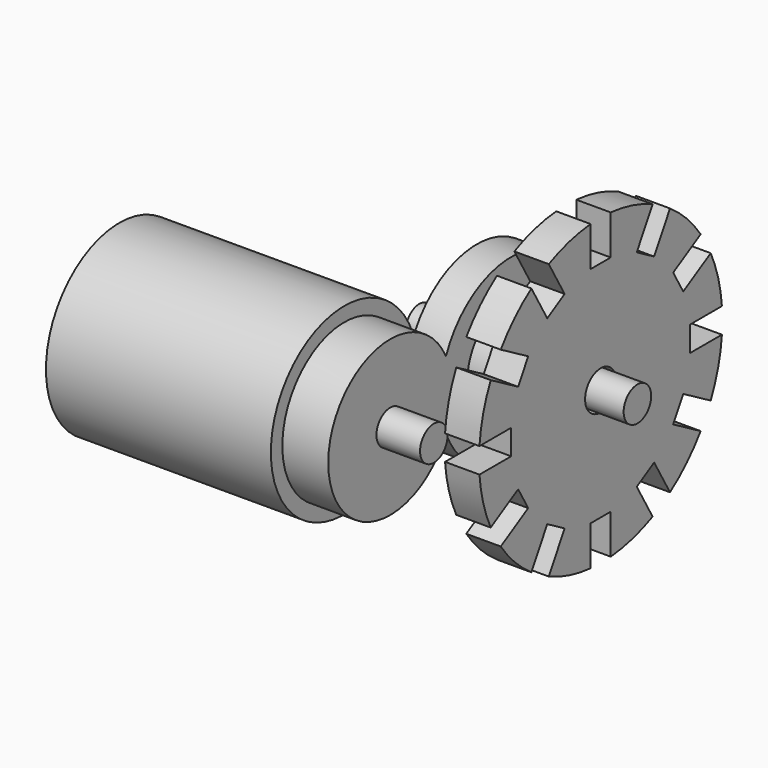
from build123d import *

# Parameters (mm, degrees)
CYLINDER005_R               = 1.5
CYLINDER005_DEPTH           = 30.9
CYLINDER006_R               = 8
CYLINDER006_DEPTH           = 19.6
CUBE008_W                   = 1.7
CUBE008_H                   = 6
CUBE008_DEPTH               = 8
CYLINDER016_R               = 1.25
CYLINDER016_DEPTH           = 1
CYLINDER017_R               = 1.25
CYLINDER017_DEPTH           = 1
CYLINDER017_PLACEMENT_ANGLE = 120
CYLINDER018_R               = 1.25
CYLINDER018_DEPTH           = 1
CYLINDER018_PLACEMENT_ANGLE = 240
CUBE010_W                   = 7
CUBE010_H                   = 2.1875
CUBE010_DEPTH               = 3
CUBE010_PLACEMENT_ANGLE     = 30
CUBE011_W                   = 7
CUBE011_H                   = 2.1875
CUBE011_DEPTH               = 3
CUBE011_PLACEMENT_ANGLE     = 60
CUBE012_W                   = 7
CUBE012_H                   = 2.1875
CUBE012_DEPTH               = 3
CUBE013_W                   = 7
CUBE013_H                   = 2.1875
CUBE013_DEPTH               = 3
CUBE013_PLACEMENT_ANGLE     = 120
CUBE014_W                   = 7
CUBE014_H                   = 2.1875
CUBE014_DEPTH               = 3
CUBE014_PLACEMENT_ANGLE     = 150
CUBE015_W                   = 7
CUBE015_H                   = 2.1875
CUBE015_DEPTH               = 3
CUBE016_W                   = 7
CUBE016_H                   = 2.1875
CUBE016_DEPTH               = 3
CUBE016_PLACEMENT_ANGLE     = 210
CUBE017_W                   = 7
CUBE017_H                   = 2.1875
CUBE017_DEPTH               = 3
CUBE017_PLACEMENT_ANGLE     = 240
CUBE018_W                   = 7
CUBE018_H                   = 2.1875
CUBE018_DEPTH               = 3
CUBE019_W                   = 7
CUBE019_H                   = 2.1875
CUBE019_DEPTH               = 3
CUBE019_PLACEMENT_ANGLE     = 60
CUBE020_W                   = 7
CUBE020_H                   = 2.1875
CUBE020_DEPTH               = 3
CUBE020_PLACEMENT_ANGLE     = 30
CUBE021_W                   = 7
CUBE021_H                   = 2.1875
CUBE021_DEPTH               = 3
CUBE009_W                   = 7
CUBE009_H                   = 2.1875
CUBE009_DEPTH               = 3
CYLINDER015_R               = 1.7
CYLINDER015_DEPTH           = 22.4
CYLINDER009_R               = 3
CYLINDER009_DEPTH           = 0.5
CYLINDER010_R               = 2.8
CYLINDER010_DEPTH           = 11.2
CYLINDER011_R               = 4
CYLINDER011_DEPTH           = 7
CYLINDER013_R               = 4
CYLINDER013_DEPTH           = 8
CYLINDER012_R               = 4.8
CYLINDER012_DEPTH           = 8
CYLINDER014_R               = 13.25
CYLINDER014_DEPTH           = 3
CYLINDER019_R               = 1.5
CYLINDER019_DEPTH           = 19
CYLINDER007_R               = 7.7
CYLINDER007_DEPTH           = 3
CYLINDER004_R               = 6.75
CYLINDER004_DEPTH           = 4
GROUP004_ROLL_ANGLE         = -90
GROUP004_PLACEMENT_ANGLE    = 90


with BuildPart() as cylinder005:
    # cylinder005 → cylinder005 (new body)
    with BuildSketch(Plane.XY.offset(-3.8)):
        Circle(CYLINDER005_R)
    extrude(amount=CYLINDER005_DEPTH)


with BuildPart() as cylinder006:
    # cylinder006 → cylinder006 (new body)
    with BuildSketch(Plane.XY.offset(4)):
        Circle(CYLINDER006_R)
    extrude(amount=CYLINDER006_DEPTH)


with BuildPart() as cube008:
    # cube008 → cube008 (new body)
    with BuildSketch(Plane(origin=(-0.85, -3, 8), x_dir=(1, 0, 0), z_dir=(0, 0, 1))):
        with Locations((0.85, 3)):
            Rectangle(CUBE008_W, CUBE008_H)
    extrude(amount=CUBE008_DEPTH)


with BuildPart() as cylinder016:
    # cylinder016 → cylinder016 (new body)
    with BuildSketch(Plane(origin=(4.4, 0, 7), x_dir=(1, 0, 0), z_dir=(0, 0, 1))):
        Circle(CYLINDER016_R)
    extrude(amount=CYLINDER016_DEPTH)


with BuildPart() as cylinder017:
    # cylinder017 → cylinder017 (new body)
    with BuildSketch(Plane.XY):
        Circle(CYLINDER017_R)
    extrude(amount=CYLINDER017_DEPTH)


with BuildPart() as cylinder017_1:
    # cylinder017 placement: moved
    add(cylinder017.part.moved(Location((-2.2, 3.810512, 7))).rotate(Axis((-2.2, 3.810512, 7), (0, 0, 1)), CYLINDER017_PLACEMENT_ANGLE))


with BuildPart() as cylinder018:
    # cylinder018 → cylinder018 (new body)
    with BuildSketch(Plane.XY):
        Circle(CYLINDER018_R)
    extrude(amount=CYLINDER018_DEPTH)


with BuildPart() as cylinder018_1:
    # cylinder018 placement: moved
    add(cylinder018.part.moved(Location((-2.2, -3.810512, 7))).rotate(Axis((-2.2, -3.810512, 7), (0, 0, 1)), CYLINDER018_PLACEMENT_ANGLE))


with BuildPart() as cube010:
    # cube010 → cube010 (new body)
    with BuildSketch(Plane.XY):
        with Locations((3.5, 1.09375)):
            Rectangle(CUBE010_W, CUBE010_H)
    extrude(amount=CUBE010_DEPTH)


with BuildPart() as cube010_1:
    # cube010 placement: moved
    add(cube010.part.moved(Location((8.990623, 3.927785, 0))).rotate(Axis((8.990623, 3.927785, 0), (0, 0, 1)), CUBE010_PLACEMENT_ANGLE))


with BuildPart() as cube011:
    # cube011 → cube011 (new body)
    with BuildSketch(Plane.XY):
        with Locations((3.5, 1.09375)):
            Rectangle(CUBE011_W, CUBE011_H)
    extrude(amount=CUBE011_DEPTH)


with BuildPart() as cube011_1:
    # cube011 placement: moved
    add(cube011.part.moved(Location((5.822215, 7.896873, 0))).rotate(Axis((5.822215, 7.896873, 0), (0, 0, 1)), CUBE011_PLACEMENT_ANGLE))


with BuildPart() as cube012:
    # cube012 → cube012 (new body)
    with BuildSketch(Plane(origin=(1.09375, 9.75, 0), x_dir=(0, 1, 0), z_dir=(0, 0, 1))):
        with Locations((3.5, 1.09375)):
            Rectangle(CUBE012_W, CUBE012_H)
    extrude(amount=CUBE012_DEPTH)


with BuildPart() as cube013:
    # cube013 → cube013 (new body)
    with BuildSketch(Plane.XY):
        with Locations((3.5, 1.09375)):
            Rectangle(CUBE013_W, CUBE013_H)
    extrude(amount=CUBE013_DEPTH)


with BuildPart() as cube013_1:
    # cube013 placement: moved
    add(cube013.part.moved(Location((-3.927785, 8.990623, 0))).rotate(Axis((-3.927785, 8.990623, 0), (0, 0, 1)), CUBE013_PLACEMENT_ANGLE))


with BuildPart() as cube014:
    # cube014 → cube014 (new body)
    with BuildSketch(Plane.XY):
        with Locations((3.5, 1.09375)):
            Rectangle(CUBE014_W, CUBE014_H)
    extrude(amount=CUBE014_DEPTH)


with BuildPart() as cube014_1:
    # cube014 placement: moved
    add(cube014.part.moved(Location((-7.896873, 5.822215, 0))).rotate(Axis((-7.896873, 5.822215, 0), (0, 0, 1)), CUBE014_PLACEMENT_ANGLE))


with BuildPart() as cube015:
    # cube015 → cube015 (new body)
    with BuildSketch(Plane(origin=(-9.75, 1.09375, 0), x_dir=(-1, 0, 0), z_dir=(0, 0, 1))):
        with Locations((3.5, 1.09375)):
            Rectangle(CUBE015_W, CUBE015_H)
    extrude(amount=CUBE015_DEPTH)


with BuildPart() as cube016:
    # cube016 → cube016 (new body)
    with BuildSketch(Plane.XY):
        with Locations((3.5, 1.09375)):
            Rectangle(CUBE016_W, CUBE016_H)
    extrude(amount=CUBE016_DEPTH)


with BuildPart() as cube016_1:
    # cube016 placement: moved
    add(cube016.part.moved(Location((-8.990623, -3.927785, 0))).rotate(Axis((-8.990623, -3.927785, 0), (0, 0, 1)), CUBE016_PLACEMENT_ANGLE))


with BuildPart() as cube017:
    # cube017 → cube017 (new body)
    with BuildSketch(Plane.XY):
        with Locations((3.5, 1.09375)):
            Rectangle(CUBE017_W, CUBE017_H)
    extrude(amount=CUBE017_DEPTH)


with BuildPart() as cube017_1:
    # cube017 placement: moved
    add(cube017.part.moved(Location((-5.822215, -7.896873, 0))).rotate(Axis((-5.822215, -7.896873, 0), (0, 0, 1)), CUBE017_PLACEMENT_ANGLE))


with BuildPart() as cube018:
    # cube018 → cube018 (new body)
    with BuildSketch(Plane(origin=(-1.09375, -9.75, 0), x_dir=(0, -1, 0), z_dir=(0, 0, 1))):
        with Locations((3.5, 1.09375)):
            Rectangle(CUBE018_W, CUBE018_H)
    extrude(amount=CUBE018_DEPTH)


with BuildPart() as cube019:
    # cube019 → cube019 (new body)
    with BuildSketch(Plane.XY):
        with Locations((3.5, 1.09375)):
            Rectangle(CUBE019_W, CUBE019_H)
    extrude(amount=CUBE019_DEPTH)


with BuildPart() as cube019_1:
    # cube019 placement: moved
    add(cube019.part.moved(Location((3.927785, -8.990623, 0))).rotate(Axis((3.927785, -8.990623, 0), (0, 0, -1)), CUBE019_PLACEMENT_ANGLE))


with BuildPart() as cube020:
    # cube020 → cube020 (new body)
    with BuildSketch(Plane.XY):
        with Locations((3.5, 1.09375)):
            Rectangle(CUBE020_W, CUBE020_H)
    extrude(amount=CUBE020_DEPTH)


with BuildPart() as cube020_1:
    # cube020 placement: moved
    add(cube020.part.moved(Location((7.896873, -5.822215, 0))).rotate(Axis((7.896873, -5.822215, 0), (0, 0, -1)), CUBE020_PLACEMENT_ANGLE))


with BuildPart() as cube021:
    # cube021 → cube021 (new body)
    with BuildSketch(Plane(origin=(9.75, -1.09375, 0), x_dir=(1, 0, 0), z_dir=(0, 0, 1))):
        with Locations((3.5, 1.09375)):
            Rectangle(CUBE021_W, CUBE021_H)
    extrude(amount=CUBE021_DEPTH)


with BuildPart() as group003:
    # cube009 → cube009 (new body)
    with BuildSketch(Plane(origin=(9.75, -1.09375, 0), x_dir=(1, 0, 0), z_dir=(0, 0, 1))):
        with Locations((3.5, 1.09375)):
            Rectangle(CUBE009_W, CUBE009_H)
    extrude(amount=CUBE009_DEPTH)

    # Group003: union cube010, cube011, cube012, cube013, cube014, cube015, cube016, cube017, cube018, cube019, cube020, cube021
    add(cube010_1.part)
    add(cube011_1.part)
    add(cube012.part)
    add(cube013_1.part)
    add(cube014_1.part)
    add(cube015.part)
    add(cube016_1.part)
    add(cube017_1.part)
    add(cube018.part)
    add(cube019_1.part)
    add(cube020_1.part)
    add(cube021.part)


with BuildPart() as union002:
    # cylinder015 → cylinder015 (new body)
    with BuildSketch(Plane.XY):
        Circle(CYLINDER015_R)
    extrude(amount=CYLINDER015_DEPTH)

    # union002: union cube008, cylinder016, cylinder017, cylinder018, Group003
    add(cube008.part)
    add(cylinder016.part)
    add(cylinder017_1.part)
    add(cylinder018_1.part)
    add(group003.part)


with BuildPart() as cylinder009:
    # cylinder009 → cylinder009 (new body)
    with BuildSketch(Plane.XY.offset(11.2)):
        Circle(CYLINDER009_R)
    extrude(amount=CYLINDER009_DEPTH)


with BuildPart() as cylinder010:
    # cylinder010 → cylinder010 (new body)
    with BuildSketch(Plane.XY):
        Circle(CYLINDER010_R)
    extrude(amount=CYLINDER010_DEPTH)


with BuildPart() as cylinder011:
    # cylinder011 → cylinder011 (new body)
    with BuildSketch(Plane.XY):
        Circle(CYLINDER011_R)
    extrude(amount=CYLINDER011_DEPTH)


with BuildPart() as cylinder013:
    # cylinder013 → cylinder013 (new body)
    with BuildSketch(Plane.XY):
        Circle(CYLINDER013_R)
    extrude(amount=CYLINDER013_DEPTH)


with BuildPart() as difference001:
    # cylinder012 → cylinder012 (new body)
    with BuildSketch(Plane.XY):
        Circle(CYLINDER012_R)
    extrude(amount=CYLINDER012_DEPTH)

    # difference001: cut cylinder013
    add(cylinder013.part, mode=Mode.SUBTRACT)


with BuildPart() as cylinder014:
    # cylinder014 → cylinder014 (new body)
    with BuildSketch(Plane.XY):
        Circle(CYLINDER014_R)
    extrude(amount=CYLINDER014_DEPTH)


with BuildPart() as difference002:
    # cylinder008 → cylinder008 (revolve)
    with BuildSketch(Plane(origin=(0, 0, 11.7), x_dir=(1, 0, 0), z_dir=(0, -1, 0))):
        Polygon((0, 0), (3, 0), (2.6, 0.5), (0, 0.5), align=None)
    revolve(axis=Axis((0, 0, 11.7), (0, 0, 1)))

    # union001: union cylinder009, cylinder010, cylinder011, difference001, cylinder014
    add(cylinder009.part)
    add(cylinder010.part)
    add(cylinder011.part)
    add(difference001.part)
    add(cylinder014.part)

    # difference002: cut union002
    add(union002.part, mode=Mode.SUBTRACT)


with BuildPart() as difference002_1:
    # difference002 placement: moved
    add(difference002.part.moved(Location((0, 0, -7.8))))


with BuildPart() as cylinder019:
    # cylinder019 → cylinder019 (new body)
    with BuildSketch(Plane.XY.offset(-11)):
        Circle(CYLINDER019_R)
    extrude(amount=CYLINDER019_DEPTH)


with BuildPart() as matrix_union:
    # cylinder007 → cylinder007 (new body)
    with BuildSketch(Plane.XY):
        Circle(CYLINDER007_R)
    extrude(amount=CYLINDER007_DEPTH)

    # Matrix_Union: union difference002, cylinder019
    add(difference002_1.part)
    add(cylinder019.part)


with BuildPart() as matrix_union_1:
    # Matrix_Union placement: moved
    add(matrix_union.part.moved(Location((13.175, 0, 0))))


with BuildPart() as obj1:
    # cylinder004 → cylinder004 (new body)
    with BuildSketch(Plane.XY):
        Circle(CYLINDER004_R)
    extrude(amount=CYLINDER004_DEPTH)

    # Group004: union cylinder005, cylinder006, Matrix_Union
    add(cylinder005.part)
    add(cylinder006.part)
    add(matrix_union_1.part)


with BuildPart() as obj1_1:
    # Group004 roll: moved
    add(obj1.part.rotate(Axis((0, 0, 0), (1, 0, 0)), GROUP004_ROLL_ANGLE))


with BuildPart() as obj1_2:
    # Group004 placement: moved
    add(obj1_1.part.moved(Location((9, -8, 18.4))).rotate(Axis((9, -8, 18.4), (0, 0, 1)), GROUP004_PLACEMENT_ANGLE))


solid = obj1_2.part
